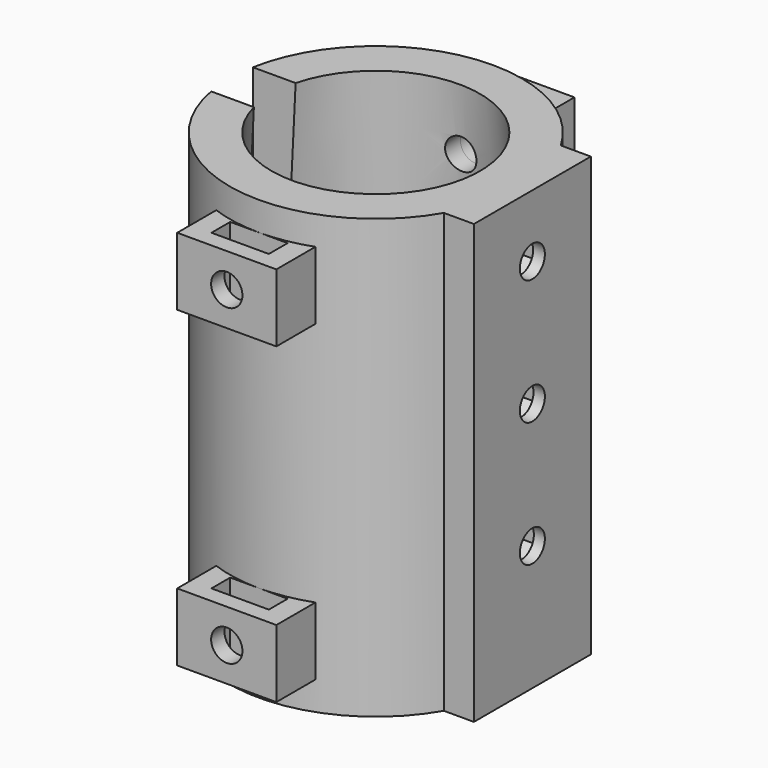
from build123d import *

# Parameters (mm, degrees)
SKETCH014_W          = 14
SKETCH014_H          = 3
PAD006_DEPTH         = 42
SKETCH015_R          = 1.5
POCKET007_DEPTH      = 5
POCKET008_DEPTH      = 2
POCKET008_DEPTH_BACK = 3
SKETCH018_W          = 5
SKETCH018_H          = 15
POCKET009_DEPTH      = 43
SKETCH020_W          = 9.5
SKETCH020_H          = 6.5
PAD008_DEPTH         = 3.85
PAD008_DEPTH_BACK    = 1
SKETCH019_R          = 1.5
POCKET010_DEPTH      = 8
POCKET010_DEPTH_BACK = 100
SKETCH021_W          = 2.25
SKETCH021_H          = 5.5
POCKET011_DEPTH      = 42


with BuildPart() as part:
    # Sketch013 → Revolution (revolve)
    with BuildSketch(Plane.YZ):
        Polygon((10, 0), (14, 0), (14, -42), (12, -42), align=None)
    revolve(axis=Axis((0, 0, 0), (0, 0, 1)))

    # Sketch014 (on Face1 of Revolution) → Pad006 (new body)
    with BuildSketch(Plane(origin=(0, 0, 0), x_dir=(0, -1, 0), z_dir=(0, 0, 1))):
        with Locations((0, 13.5)):
            Rectangle(SKETCH014_W, SKETCH014_H)
    extrude(amount=-PAD006_DEPTH)

    # Sketch015 (on Face11 of Pad006) → Pocket007 (cut)
    with BuildSketch(Plane.YZ.offset(15)):
        with Locations((0, -6)):
            Circle(SKETCH015_R)
        with Locations((0, -18)):
            Circle(SKETCH015_R)
        with Locations((0, -30)):
            Circle(SKETCH015_R)
    extrude(amount=-POCKET007_DEPTH, mode=Mode.SUBTRACT)

    # Sketch016 (on DatumPlane) → Pocket008 (cut, two sides)
    with BuildSketch(Plane(origin=(11.920048, -2.3e-05, -21.627207), x_dir=(-2e-06, -1, 0), z_dir=(-0.999996, 2e-06, -0.003))) as pocket008_sk:
        Polygon((2.75, 14.039346), (2.75, 17.214772), (0, 18.802485), (-2.75, 17.214772), (-2.75, 14.039346), (0, 12.451632), align=None)
        Polygon((2.75, 2.039346), (2.75, 5.214772), (0, 6.802485), (-2.75, 5.214772), (-2.75, 2.039346), (0, 0.451632), align=None)
        Polygon((2.75, -9.960654), (2.75, -6.785228), (0, -5.197515), (-2.75, -6.785228), (-2.75, -9.960654), (0, -11.548368), align=None)
    extrude(amount=-POCKET008_DEPTH, mode=Mode.SUBTRACT)
    extrude(pocket008_sk.sketch, amount=POCKET008_DEPTH_BACK, mode=Mode.SUBTRACT)

    # Sketch018 (on Face1 of Pocket008) → Pocket009 (cut)
    with BuildSketch(Plane(origin=(0, 0, 0), x_dir=(0, -1, 0), z_dir=(0, 0, 1))):
        with Locations((0, -7.5)):
            Rectangle(SKETCH018_W, SKETCH018_H)
    extrude(amount=-POCKET009_DEPTH, mode=Mode.SUBTRACT)

    # Sketch020 (on DatumPlane) → Pad008 (join, two sides)
    with BuildSketch(Plane(origin=(15, 14, 0), x_dir=(-1, 0, 0), z_dir=(0, 1, 0))) as pad008_sk:
        with Locations((15, -6)):
            Rectangle(SKETCH020_W, SKETCH020_H)
        with Locations((15, -36)):
            Rectangle(SKETCH020_W, SKETCH020_H)
    pad008 = extrude(amount=PAD008_DEPTH) + extrude(pad008_sk.sketch, amount=-PAD008_DEPTH_BACK)

    # Mirrored: Pad008 across XZ
    add(pad008.mirror(Plane.XZ))

    # Sketch019 (on DatumPlane) → Pocket010 (cut, two sides)
    with BuildSketch(Plane(origin=(15, 12, 0), x_dir=(1, 0, 0), z_dir=(0, -1, 0))) as pocket010_sk:
        with Locations((-15, -6)):
            Circle(SKETCH019_R)
        with Locations((-15, -36)):
            Circle(SKETCH019_R)
    extrude(amount=-POCKET010_DEPTH, mode=Mode.SUBTRACT)
    extrude(pocket010_sk.sketch, amount=POCKET010_DEPTH_BACK, mode=Mode.SUBTRACT)

    # Sketch021 (on Face17 of Pocket010) → Pocket011 (cut)
    with BuildSketch(Plane.YX.offset(39.25)):
        with Locations((-15.125, 0)):
            Rectangle(SKETCH021_W, SKETCH021_H)
    pocket011 = extrude(amount=-POCKET011_DEPTH, mode=Mode.SUBTRACT)

    # Mirrored001: Pocket011 across XZ
    add(pocket011.mirror(Plane.XZ), mode=Mode.SUBTRACT)


solid = part.part
